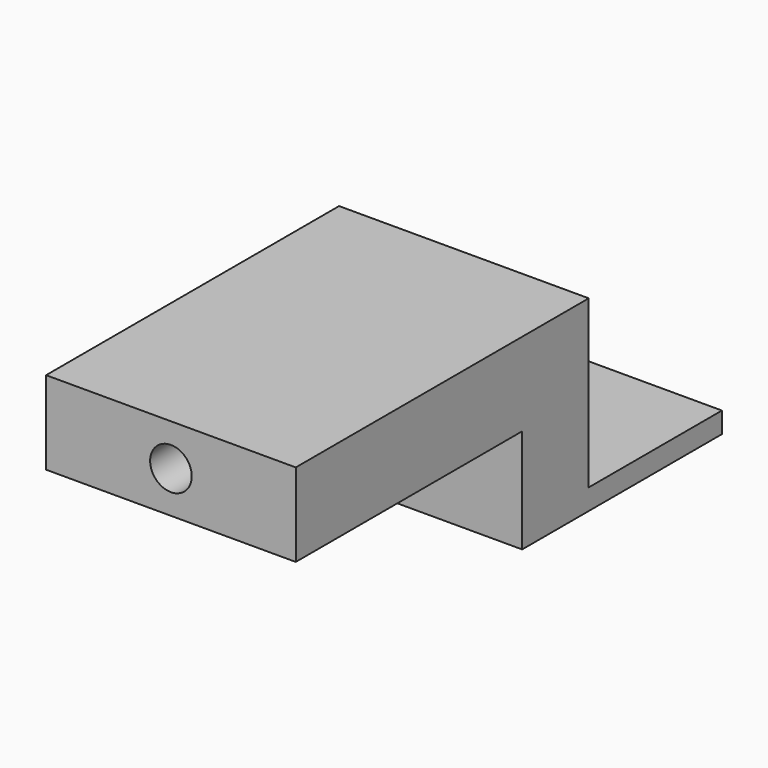
from build123d import *

# Parameters (mm, degrees)
F0_W     = 38.1
F0_H     = 38.1
F0_R     = 6.35
F1_DEPTH = 3.175
F2_W     = 38.1
F2_H     = 12.7
F3_DEPTH = 25.4
F4_W     = 38.1
F4_H     = 12.7
F5_DEPTH = 43.18
F6_R     = 3.175
F7_DEPTH = 81.281


with BuildPart() as f1:
    # F0 (on Top) → F1 (new body)
    with BuildSketch(Plane.XY):
        with Locations((19.05, 19.05)):
            Rectangle(F0_W, F0_H)
        with Locations((19.05, 25.4)):
            Circle(F0_R, mode=Mode.SUBTRACT)
    extrude(amount=F1_DEPTH)

    # F2 (on face) → F3 (join)
    with BuildSketch(Plane.XY.offset(3.175)):
        with Locations((19.05, 6.35)):
            Rectangle(F2_W, F2_H)
    extrude(amount=F3_DEPTH)

    # F4 (on face) → F5 (join)
    with BuildSketch(Plane.XZ):
        with Locations((19.05, 22.225)):
            Rectangle(F4_W, F4_H)
    extrude(amount=F5_DEPTH)

    # F6 (on face) → F7 (cut, through all)
    with BuildSketch(Plane.XZ.offset(43.18)):
        with Locations((19.05, 22.225)):
            Circle(F6_R)
    extrude(amount=-F7_DEPTH, mode=Mode.SUBTRACT)


solid = f1.part
